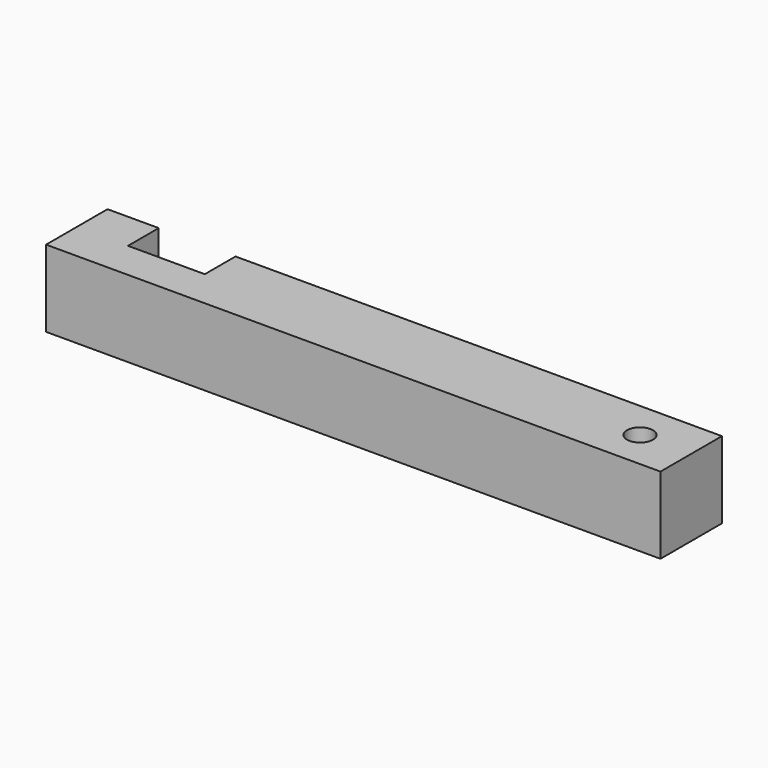
from build123d import *

# Parameters (mm, degrees)
F0_R     = 3.2004
F1_DEPTH = 19.05


with BuildPart() as f1:
    # F0 (on Top) → F1 (new body)
    with BuildSketch(Plane.XY):
        Polygon((-5.966901, 9.525), (-18.666901, 9.525), (-18.666901, -9.525), (133.733099, -9.525), (133.733099, 9.525), (13.083099, 9.525), (13.083099, 0), (-5.966901, 0), align=None)
        with Locations((121.033099, 0)):
            Circle(F0_R, mode=Mode.SUBTRACT)
    extrude(amount=F1_DEPTH)


solid = f1.part
